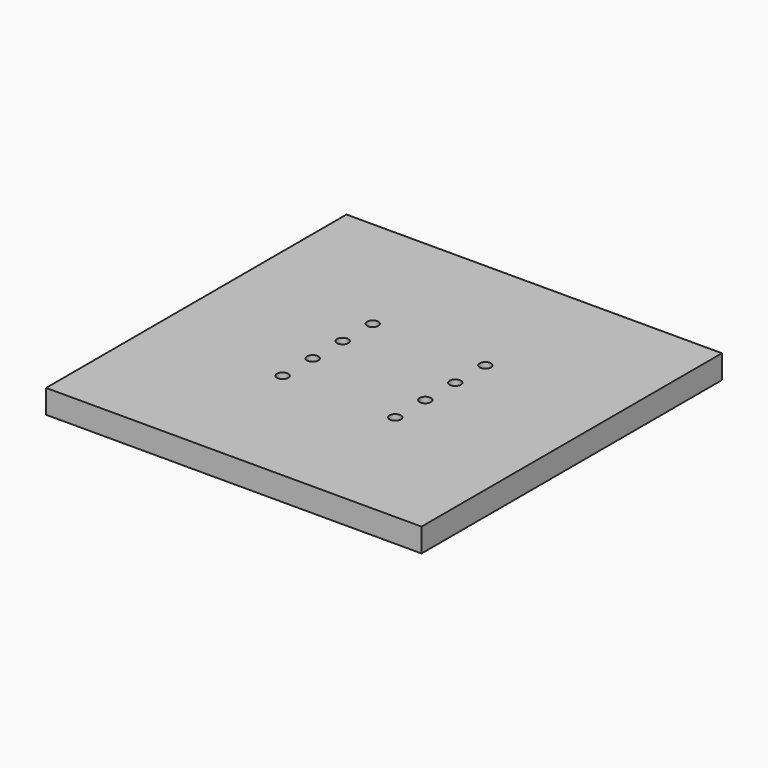
from build123d import *

# Parameters (mm, degrees)
F0_W     = 25.4
F0_H     = 25.4
F1_DEPTH = 1.6002
F3_D     = 0.762


with BuildPart() as f1:
    # F0 (on Top) → F1 (new body)
    with BuildSketch(Plane.XY):
        Rectangle(F0_W, F0_H)
    extrude(amount=-F1_DEPTH)

    # F3 (through all)
    with Locations(Plane.XY):
        with Locations((-3.81, 3.81), (-3.81, 1.27), (-3.81, -1.27), (-3.81, -3.81), (3.81, -1.27), (3.81, 1.27), (3.81, 3.81), (3.81, -3.81)):
            Hole(F3_D / 2)


solid = f1.part
